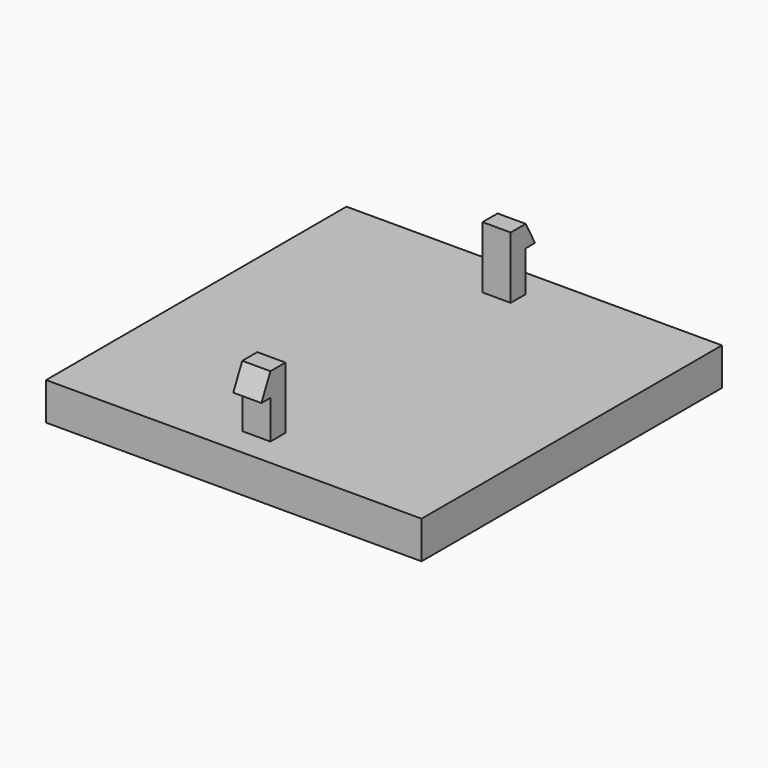
from build123d import *

# Parameters (mm, degrees)
F0_W     = 25.4
F0_H     = 25.4
F1_DEPTH = 2.54
F3_DEPTH = 4.191
F4_DEPTH = 4.191
F7_DEPTH = 1.905


with BuildPart() as f1:
    # F0 (on Top) → F1 (new body)
    with BuildSketch(Plane.XY):
        with Locations((-37.877972, 34.147903)):
            Rectangle(F0_W, F0_H)
    extrude(amount=F1_DEPTH)

    # F2 (on face) → F3 (join)
    with BuildSketch(Plane.XY.offset(2.54)):
        Polygon((-38.830472, 24.622903), (-38.830472, 24.036821), (-38.830472, 23.352903), (-37.877972, 23.352903), (-36.925472, 23.352903), (-36.925472, 24.622903), align=None)
    extrude(amount=F3_DEPTH)

    # F2 (on face) → F4 (join)
    with BuildSketch(Plane.XY.offset(2.54)):
        Polygon((-36.925472, 44.942903), (-37.877972, 44.942903), (-38.830472, 44.942903), (-38.830472, 44.307903), (-38.830472, 43.672903), (-36.925472, 43.672903), align=None)
    extrude(amount=F4_DEPTH)

    # F6 (on face) + F5 (on face) → F7 (join)
    with BuildSketch(Plane(origin=(-38.830472, 0, 0), x_dir=(0, -1, 0), z_dir=(-1, 0, 0))):
        Polygon((-23.352903, 6.731), (-23.352903, 5.1435), (-22.590903, 5.1435), align=None)
    with BuildSketch(Plane(origin=(-38.830472, 0, 0), x_dir=(0, -1, 0), z_dir=(-1, 0, 0))):
        Polygon((-45.728009, 5.272041), (-44.942903, 5.272041), (-44.942903, 6.731), align=None)
    extrude(amount=-F7_DEPTH)


solid = f1.part
